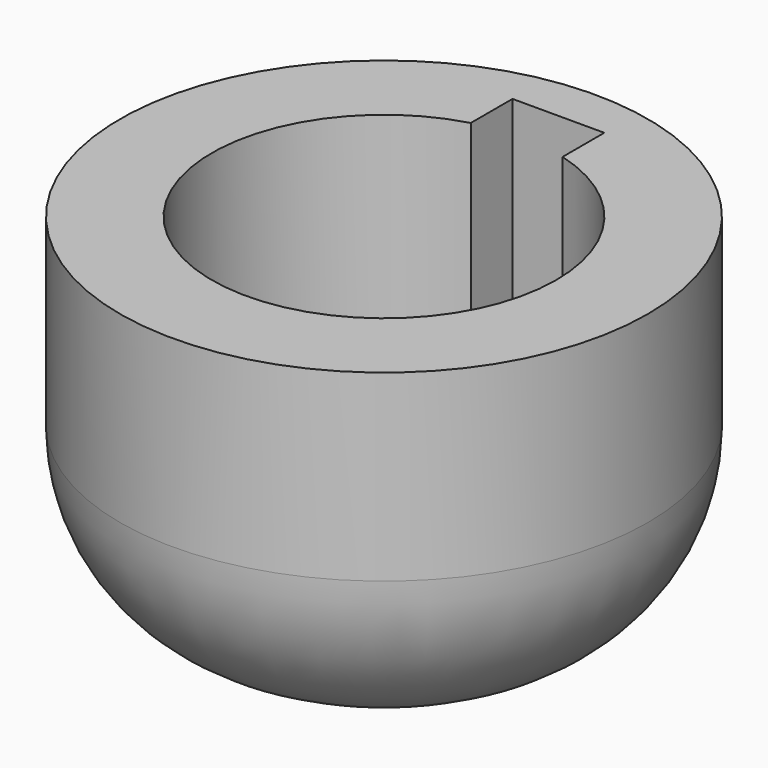
from build123d import *

# Parameters (mm, degrees)
F0_R     = 5.75
F1_DEPTH = 8
F2_DEPTH = 2
F3_R     = 4


with BuildPart() as f1:
    # F0 (on Top) → F1 (new body)
    with BuildSketch(Plane.XY):
        Circle(F0_R)
        with BuildLine():
            ThreePointArc((1, 3.614208), (2.984334, 2.270738), (3.75, 0))
            ThreePointArc((3.75, 0), (-2.270738, -2.984334), (-1, 3.614208))
            Line((-1, 3.614208), (-1, 4.75))
            Line((-1, 4.75), (1, 4.75))
            Line((1, 4.75), (1, 3.614208))
        make_face(mode=Mode.SUBTRACT)
    extrude(amount=F1_DEPTH)

    # F0 (on Top) → F2 (join)
    with BuildSketch(Plane.XY):
        with BuildLine():
            ThreePointArc((-1, 3.614208), (0, 3.75), (1, 3.614208))
            Line((1, 3.614208), (1, 4.75))
            Line((1, 4.75), (-1, 4.75))
            Line((-1, 4.75), (-1, 3.614208))
        make_face()
        with BuildLine():
            Line((1, 2.75), (1, 3.614208))
            ThreePointArc((1, 3.614208), (0, 3.75), (-1, 3.614208))
            Line((-1, 3.614208), (-1, 2.75))
            Line((-1, 2.75), (1, 2.75))
        make_face()
        with BuildLine():
            ThreePointArc((-1, 3.614208), (-2.270738, -2.984334), (3.75, 0))
            ThreePointArc((3.75, 0), (2.984334, 2.270738), (1, 3.614208))
            Line((1, 3.614208), (1, 2.75))
            Line((1, 2.75), (-1, 2.75))
            Line((-1, 2.75), (-1, 3.614208))
        make_face()
    extrude(amount=F2_DEPTH)

    # F3
    f3_edges = [f1.edges().sort_by_distance(p)[0] for p in [
        (-5.75, 0, 0),
    ]]
    fillet(f3_edges, radius=F3_R)


solid = f1.part
